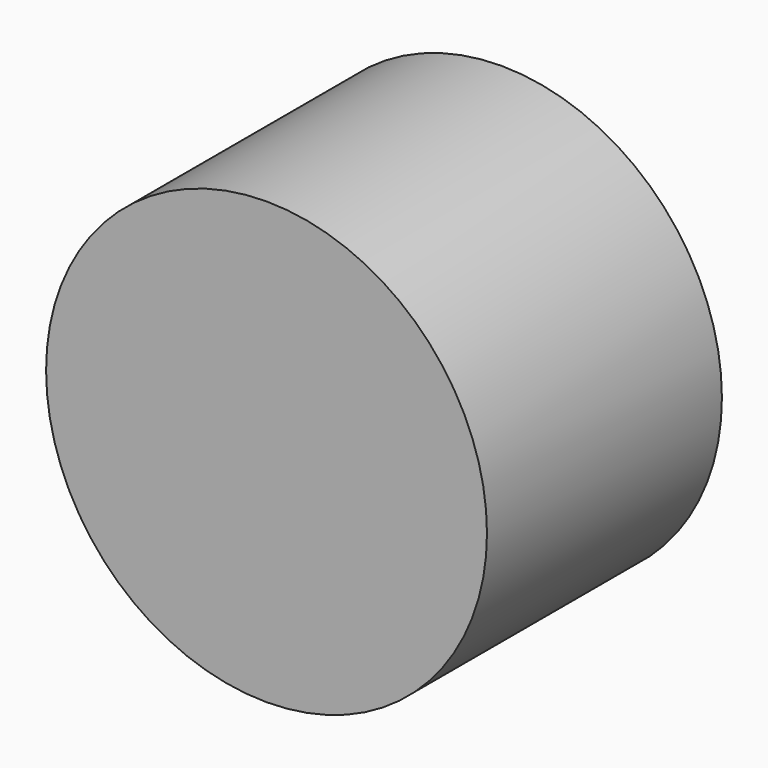
from build123d import *

# Parameters (mm, degrees)
F0_R      = 35.657163
F0_R_2    = 23.621106
F1_DEPTH  = 22.5
F1_FACE_R = 35.657163
F2_DEPTH  = 25


with BuildPart() as f1:
    # F0 (on Front) → F1 (new body)
    with BuildSketch(Plane.XZ):
        with Locations((-50.403669, 0)):
            Circle(F0_R)
        with Locations((-50.403669, 0)):
            Circle(F0_R_2, mode=Mode.SUBTRACT)
        with Locations((-50.403669, 0)):
            Circle(F0_R_2)
    extrude(amount=F1_DEPTH)

    # F1_face (on face) → F2 (join)
    with BuildSketch(Plane(origin=(-50.403669, 0, 0), x_dir=(1, 0, 0), z_dir=(0, 1, 0))):
        Circle(F1_FACE_R)
    extrude(amount=F2_DEPTH)


solid = f1.part
